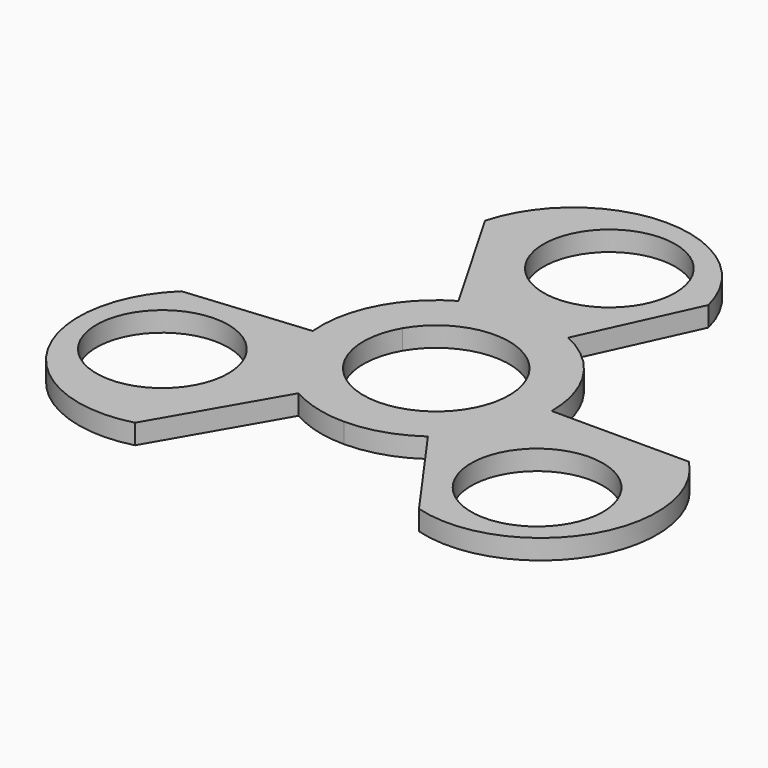
from build123d import *

# Parameters (mm, degrees)
F0_R     = 9.95
F1_DEPTH = 3


with BuildPart() as f1:
    # F0 (on Top) → F1 (new body)
    with BuildSketch(Plane.XY):
        with BuildLine():
            Line((7.244864, 15.831038), (14.943939, 32.654589))
            ThreePointArc((14.943939, 32.654589), (9.53394, 41.597928), (0, 45.882246))
            ThreePointArc((0, 45.882246), (-11.930072, 43.001993), (-19.059785, 33.012515))
            Line((-19.059785, 33.012515), (-8.705025, 15.077545))
            ThreePointArc((-8.705025, 15.077545), (-12.310764, 12.310764), (-15.077545, 8.705025))
            ThreePointArc((-15.077545, 8.705025), (-17.010717, 3.70747), (-17.332513, -1.641283))
            Line((-17.332513, -1.641283), (-35.751673, -3.385464))
            ThreePointArc((-35.751673, -3.385464), (-38.884293, -24.666016), (-19.059785, -33.012515))
            Line((-19.059785, -33.012515), (-8.705025, -15.077545))
            ThreePointArc((-8.705025, -15.077545), (-4.506052, -16.816817), (0, -17.41005))
            ThreePointArc((0, -17.41005), (5.294595, -16.585448), (10.087649, -14.189756))
            Line((10.087649, -14.189756), (20.807735, -29.269125))
            ThreePointArc((20.807735, -29.269125), (40.803543, -21.341778), (38.119569, 0))
            Line((38.119569, 0), (17.41005, 0))
            ThreePointArc((17.41005, 0), (16.816817, 4.506052), (15.077545, 8.705025))
            ThreePointArc((15.077545, 8.705025), (11.716122, 12.877978), (7.244864, 15.831038))
        make_face()
        with Locations((-28.279704, -16.327295)):
            Circle(F0_R, mode=Mode.SUBTRACT)
        with BuildLine():
            ThreePointArc((-9.526279, 5.5), (0, 11), (9.526279, 5.5))
            ThreePointArc((9.526279, 5.5), (9.526279, -5.5), (0, -11))
            ThreePointArc((0, -11), (-9.526279, -5.5), (-9.526279, 5.5))
        make_face(mode=Mode.SUBTRACT)
        with Locations((28.279704, -16.327295)):
            Circle(F0_R, mode=Mode.SUBTRACT)
        with Locations((0, 32.654589)):
            Circle(F0_R, mode=Mode.SUBTRACT)
    extrude(amount=F1_DEPTH)


solid = f1.part
